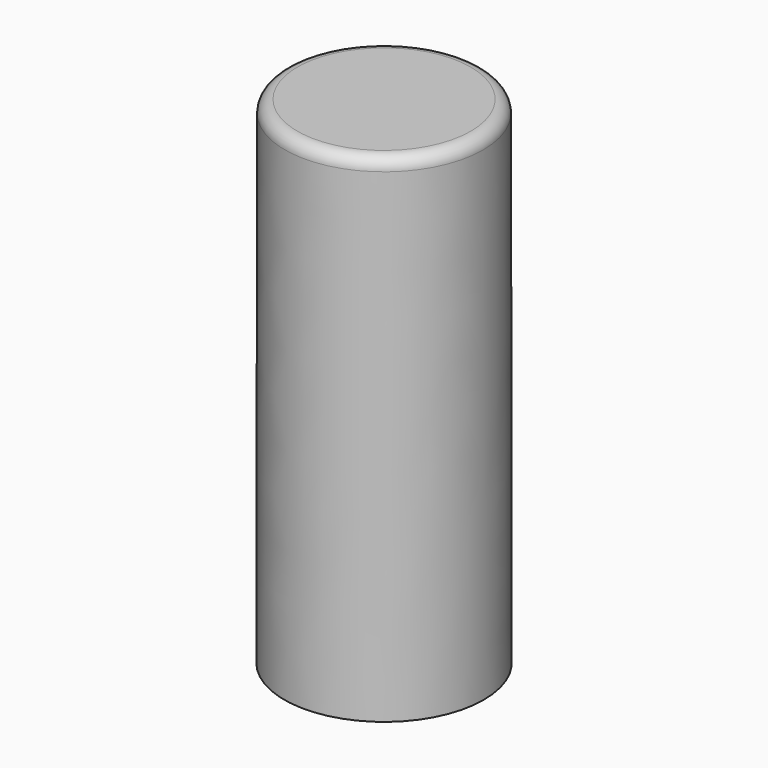
from build123d import *

# Parameters (mm, degrees)
F1_R = 8.04
F3_R = 7.99
F5_R = 1
F6_T = -0.84


with BuildPart() as f4:
    # F1 (on Top) → F4 section 0
    with BuildSketch(Plane.XY):
        Circle(F1_R)
    # F3 (on offset) → F4 section 1
    with BuildSketch(Plane.XY.offset(40)):
        Circle(F3_R)
    loft()

    # F5
    f5_edges = [f4.edges().sort_by_distance(p)[0] for p in [
        (-7.99, 0, 40),
    ]]
    fillet(f5_edges, radius=F5_R)

    # F6
    f6_openings = [f4.faces().sort_by_distance(p)[0] for p in [
        (0, 0, 0),
    ]]
    offset(amount=F6_T, openings=f6_openings, kind=Kind.INTERSECTION)


solid = f4.part
